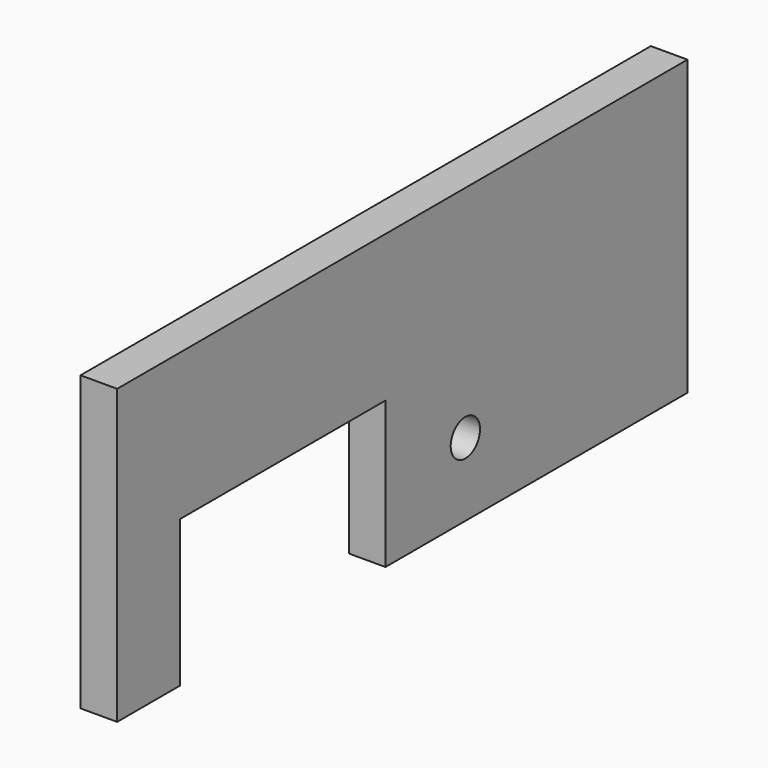
from build123d import *

# Parameters (mm, degrees)
F0_R     = 1.5875
F1_DEPTH = 3.175


with BuildPart() as f1:
    # F0 (on Right) → F1 (new body)
    with BuildSketch(Plane.YZ):
        Polygon((-30.874995, 25.4), (-30.874995, 0), (-24.04999, 0), (-24.04999, 12.7), (-1.82499, 12.7), (-1.82499, 0), (30.874995, 0), (30.874995, 6.35), (30.874995, 25.4), align=None)
        with Locations((6.825005, 6.35)):
            Circle(F0_R, mode=Mode.SUBTRACT)
    extrude(amount=F1_DEPTH)


solid = f1.part
